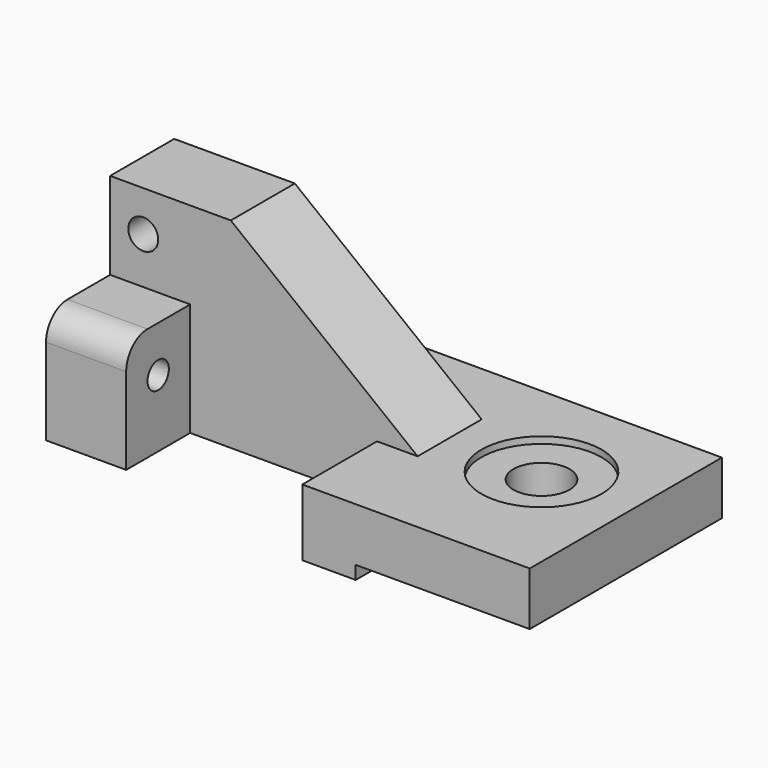
from build123d import *

# Parameters (mm, degrees)
F0_R       = 3.556
F1_DEPTH   = 19.05
F2_W       = 19.05
F2_H       = 26.924
F2_R       = 3.175
F3_DEPTH   = 19.05
F4_R       = 6.35
F6_W       = 73.152
F6_H       = 12.7
F7_DEPTH   = 15.875
F8_R       = 14.2875
F9_DEPTH   = 12.7
F8_R_2     = 6.6675
F10_DEPTH  = 11.0998
F12_DEPTH  = 3.175
F12_FACE_W = 12.7
F12_FACE_H = 57.15
F13_DEPTH  = 15.875


with BuildPart() as f1:
    # F0 (on Front) → F1 (new body)
    with BuildSketch(Plane.XZ):
        Polygon((0, 47.6504), (0, 0), (73.152, 0), (73.152, 12.7), (28.702, 47.6504), align=None)
        with Locations((7.874, 37.9984)):
            Circle(F0_R, mode=Mode.SUBTRACT)
    extrude(amount=-F1_DEPTH)

    # F2 (on Right) → F3 (join)
    with BuildSketch(Plane.YZ):
        with Locations((-9.525, 13.462)):
            Rectangle(F2_W, F2_H)
        with Locations((-9.525, 16.002)):
            Circle(F2_R, mode=Mode.SUBTRACT)
    extrude(amount=F3_DEPTH)

    # F4
    f4_edges = [f1.edges().sort_by_distance(p)[0] for p in [
        (9.525, -19.05, 26.924),
    ]]
    fillet(f4_edges, radius=F4_R)

    # F6 (on offset) → F7 (join)
    with BuildSketch(Plane.XZ.offset(-19.05)):
        with Locations((36.576, 6.35)):
            Rectangle(F6_W, F6_H)
    extrude(amount=-F7_DEPTH)

    # F8 (on Top) → F9 (join)
    with BuildSketch(Plane.XY):
        Polygon((73.152, 34.925), (73.152, 0), (73.152, -22.225), (117.602, -22.225), (117.602, 9.525), (117.602, 34.925), align=None)
        with Locations((94.996, 9.525)):
            Circle(F8_R, mode=Mode.SUBTRACT)
    extrude(amount=F9_DEPTH)

    # F8 (on Top) → F10 (join)
    with BuildSketch(Plane.XY):
        with Locations((94.996, 9.525)):
            Circle(F8_R)
        with Locations((94.996, 9.525)):
            Circle(F8_R_2, mode=Mode.SUBTRACT)
    extrude(amount=F10_DEPTH)

    # F11 (on Top) → F12 (join)
    with BuildSketch(Plane.XY):
        Polygon((76.2, 34.925), (63.5, 34.925), (63.5, 0), (63.5, -22.225), (76.2, -22.225), align=None)
    extrude(amount=-F12_DEPTH)

    # F12_face (on face) → F13 (join)
    with BuildSketch(Plane(origin=(69.85, 6.35, -3.175), x_dir=(1, 0, 0), z_dir=(0, 0, -1))):
        Rectangle(F12_FACE_W, F12_FACE_H)
    extrude(amount=-F13_DEPTH)


solid = f1.part
